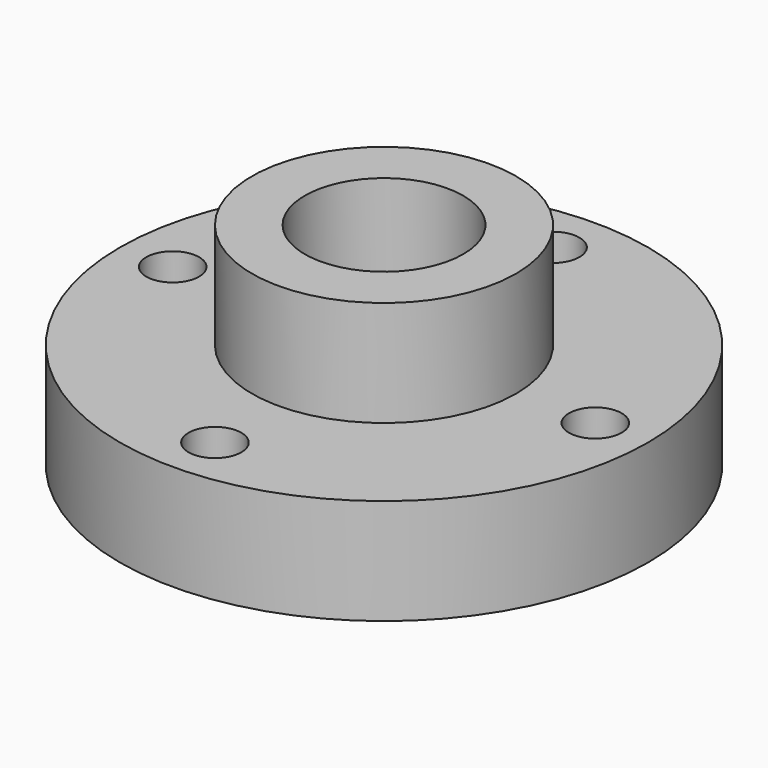
from build123d import *

# Parameters (mm, degrees)
F0_R     = 31.75
F0_R_2   = 3.175
F0_R_3   = 15.875
F1_DEPTH = 12.7
F2_DEPTH = 25.4
F3_R     = 9.525
F4_DEPTH = 25.401


with BuildPart() as f1:
    # F0 (on Top) → F1 (new body)
    with BuildSketch(Plane.XY):
        Circle(F0_R)
        with Locations((0, -25.4)):
            Circle(F0_R_2, mode=Mode.SUBTRACT)
        with Locations((-25.4, 0)):
            Circle(F0_R_2, mode=Mode.SUBTRACT)
        Circle(F0_R_3, mode=Mode.SUBTRACT)
        with Locations((25.4, 0)):
            Circle(F0_R_2, mode=Mode.SUBTRACT)
        with Locations((0, 25.4)):
            Circle(F0_R_2, mode=Mode.SUBTRACT)
    extrude(amount=F1_DEPTH)

    # F0 (on Top) → F2 (join)
    with BuildSketch(Plane.XY):
        Circle(F0_R_3)
    extrude(amount=F2_DEPTH)

    # F3 (on face) → F4 (cut, through all)
    with BuildSketch(Plane.XY.offset(25.4)):
        Circle(F3_R)
    extrude(amount=-F4_DEPTH, mode=Mode.SUBTRACT)


solid = f1.part
